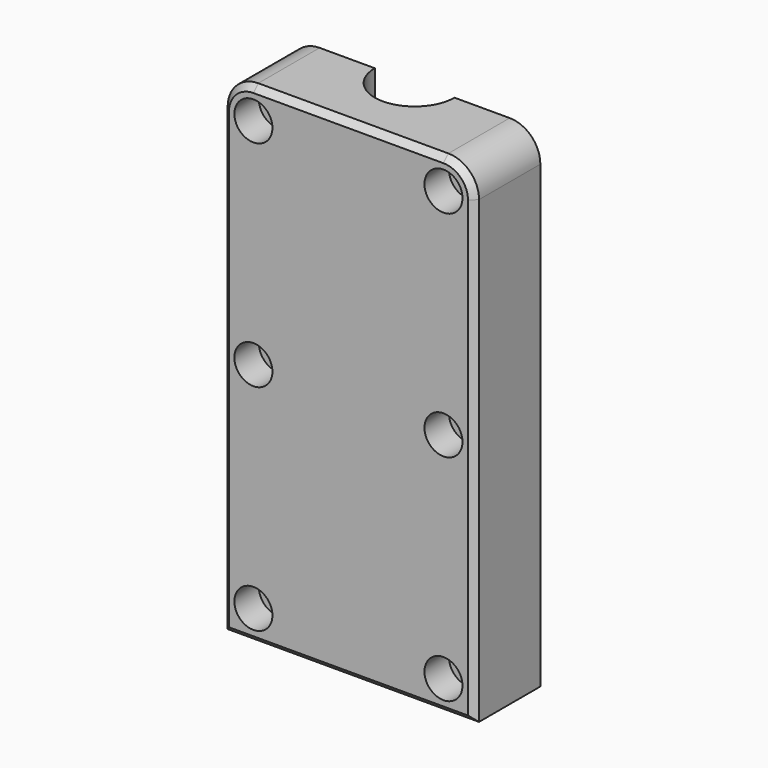
from build123d import *

# Parameters (mm, degrees)
PAD_DEPTH       = 40
SKETCH001_R     = 1.7
POCKET_DEPTH    = 13.501
SKETCH002_R     = 10.6
POCKET001_DEPTH = 30.4
SKETCH003_R     = 10.6
POCKET002_DEPTH = 30.4
FILLET_R        = 5
CHAMFER_SIZE    = 1
SKETCH004_R     = 3.1
POCKET003_DEPTH = 5


with BuildPart() as part:
    # Sketch → Pad (new body, symmetric)
    with BuildSketch(Plane.XY):
        with BuildLine():
            Line((-20.5, -13.5), (20.5, -13.5))
            Line((20.5, -13.5), (20.5, 0))
            Line((20.5, 0), (6.5, 0))
            ThreePointArc((-6.5, 0), (0, -6.5), (6.5, 0))
            Line((-6.5, 0), (-20.5, 0))
            Line((-20.5, 0), (-20.5, -13.5))
        make_face()
    extrude(amount=PAD_DEPTH, both=True)

    # Sketch001 → Pocket (cut, through all)
    with BuildSketch(Plane.XZ):
        with Locations((-15.5, 35)):
            Circle(SKETCH001_R)
        with Locations((-15.5, 0)):
            Circle(SKETCH001_R)
        with Locations((-15.5, -35)):
            Circle(SKETCH001_R)
        with Locations((15.5, -35)):
            Circle(SKETCH001_R)
        with Locations((15.5, 0)):
            Circle(SKETCH001_R)
        with Locations((15.5, 35)):
            Circle(SKETCH001_R)
    extrude(amount=POCKET_DEPTH, mode=Mode.SUBTRACT)

    # Sketch002 (on DatumPlane) → Pocket001 (cut)
    with BuildSketch(Plane.XY.offset(35)):
        Circle(SKETCH002_R)
    extrude(amount=-POCKET001_DEPTH, mode=Mode.SUBTRACT)

    # Sketch003 (on DatumPlane) → Pocket002 (cut)
    with BuildSketch(Plane.XY.offset(-35)):
        Circle(SKETCH003_R)
    extrude(amount=POCKET002_DEPTH, mode=Mode.SUBTRACT)

    # Fillet
    fillet_edges = [part.edges().sort_by_distance(p)[0] for p in [
        (-20.5, -6.75, 40),
        (20.5, -6.75, 40),
    ]]
    fillet(fillet_edges, radius=FILLET_R)

    # Chamfer
    chamfer_edges = [part.edges().sort_by_distance(p)[0] for p in [
        (-20.5, -13.5, -2.5),
        (0, -13.5, -40),
    ]]
    chamfer(chamfer_edges, length=CHAMFER_SIZE)

    # Sketch004 (on Face1 of Chamfer) → Pocket003 (cut)
    with BuildSketch(Plane.XZ.offset(13.5)):
        with Locations((-15.5, 35)):
            Circle(SKETCH004_R)
        with Locations((15.5, 35)):
            Circle(SKETCH004_R)
        with Locations((-15.5, -35)):
            Circle(SKETCH004_R)
        with Locations((-15.5, 0)):
            Circle(SKETCH004_R)
        with Locations((15.5, 0)):
            Circle(SKETCH004_R)
        with Locations((15.5, -35)):
            Circle(SKETCH004_R)
    extrude(amount=-POCKET003_DEPTH, mode=Mode.SUBTRACT)


solid = part.part
